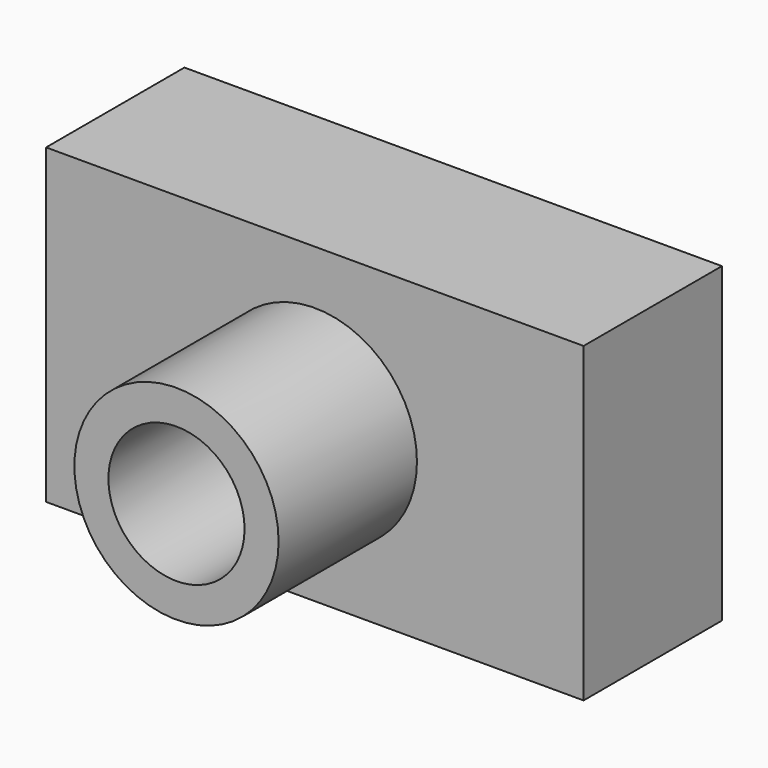
from build123d import *

# Parameters (mm, degrees)
F0_W     = 78.947164
F0_H     = 45.840274
F1_DEPTH = 12.7
F2_R     = 15
F2_R_2   = 10
F3_DEPTH = 25.4


with BuildPart() as f1:
    # F0 (on Front) → F1 (new body, symmetric)
    with BuildSketch(Plane.XZ):
        Rectangle(F0_W, F0_H)
    extrude(amount=F1_DEPTH, both=True)

    # F2 (on face) → F3 (join)
    with BuildSketch(Plane.XZ.offset(12.7)):
        Circle(F2_R)
        Circle(F2_R_2, mode=Mode.SUBTRACT)
    extrude(amount=F3_DEPTH)


solid = f1.part
